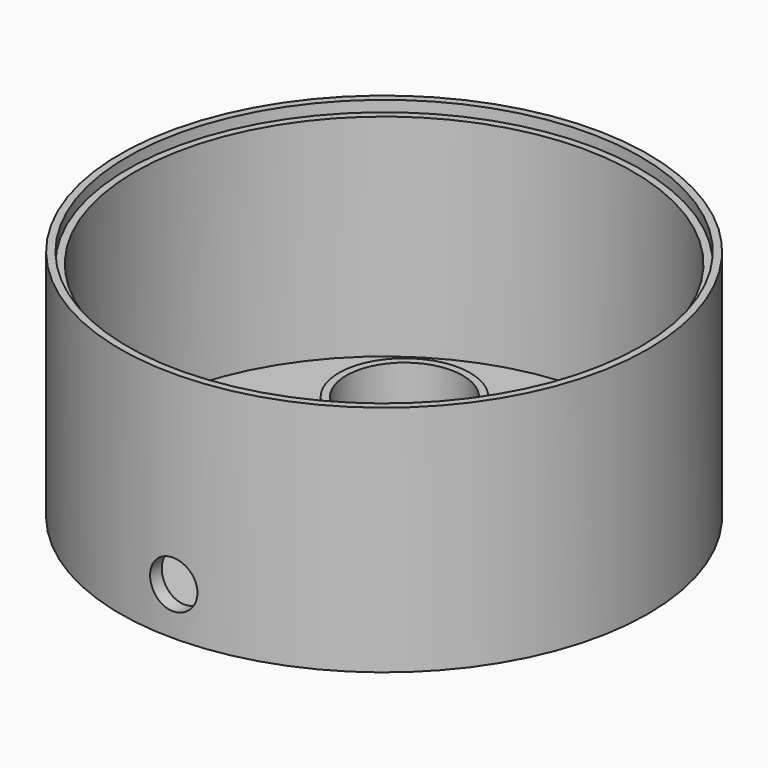
from build123d import *

# Parameters (mm, degrees)
F0_R     = 72.5
F0_R_2   = 70.5
F1_DEPTH = 64
F0_R_3   = 68.5
F2_DEPTH = 61
F3_DEPTH = 3
F5_DEPTH = 23
F7_R     = 6.5
F8_DEPTH = 25


with BuildPart() as f1:
    # F0 (on Top) → F1 (new body)
    with BuildSketch(Plane.XY):
        Circle(F0_R)
        Circle(F0_R_2, mode=Mode.SUBTRACT)
    extrude(amount=F1_DEPTH)

    # F0 (on Top) → F2 (join)
    with BuildSketch(Plane.XY):
        Circle(F0_R_2)
        Circle(F0_R_3, mode=Mode.SUBTRACT)
    extrude(amount=F2_DEPTH)

    # F0 (on Top) → F3 (join)
    with BuildSketch(Plane.XY):
        Circle(F0_R_3)
    extrude(amount=F3_DEPTH)

    # F4 (on face) → F5 (join)
    with BuildSketch(Plane.XY.offset(3)):
        with BuildLine():
            ThreePointArc((-4.1411047216, -8.4548132206), (-9.7401828641, 19.6936534447), (16, 7))
            ThreePointArc((16, 7), (12.6936534447, -2.7401828641), (4.1411047216, -8.4548132206))
            Line((4.1411047216, -8.4548132206), (4.6587428118, -10.3866648732))
            ThreePointArc((4.6587428118, -10.3866648732), (14.2803601252, -3.9577057222), (18, 7))
            ThreePointArc((18, 7), (-10.9577057222, 21.2803601252), (-4.6587428118, -10.3866648732))
            Line((-4.6587428118, -10.3866648732), (-4.1411047216, -8.4548132206))
        make_face()
    extrude(amount=F5_DEPTH)

    # F7 (on offset) → F8 (cut)
    with BuildSketch(Plane.XZ.offset(80)):
        with Locations((0, 13)):
            Circle(F7_R)
    extrude(amount=-F8_DEPTH, mode=Mode.SUBTRACT)


solid = f1.part
